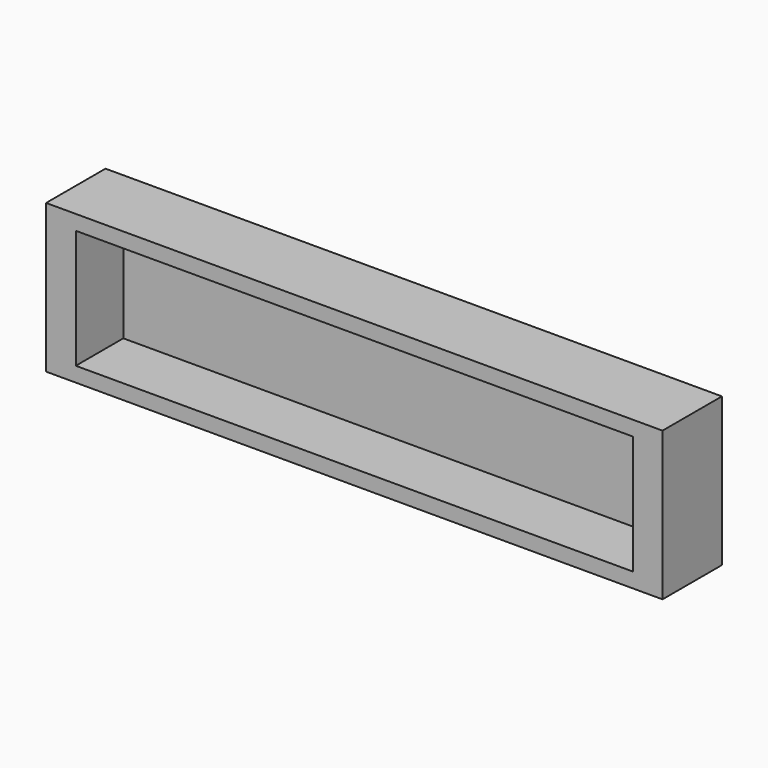
from build123d import *

# Parameters (mm, degrees)
F0_W     = 190.5
F0_H     = 40.64
F1_DEPTH = 5.08
F0_H_2   = 5.08
F2_DEPTH = 25.4


with BuildPart() as f1:
    # F0 (on Front) → F1 (new body)
    with BuildSketch(Plane.XZ):
        Rectangle(F0_W, F0_H)
    extrude(amount=F1_DEPTH)

    # F0 (on Front) → F2 (join)
    with BuildSketch(Plane.XZ):
        Polygon((-95.25, -25.4), (-95.25, -20.32), (-95.25, 20.32), (-95.25, 25.4), (-105.41, 25.4), (-105.41, -25.4), align=None)
        Polygon((95.25, 20.32), (95.25, -20.32), (95.25, -25.4), (105.41, -25.4), (105.41, 25.4), (95.25, 25.4), align=None)
        with Locations((0, -22.86)):
            Rectangle(F0_W, F0_H_2)
        with Locations((0, 22.86)):
            Rectangle(F0_W, F0_H_2)
    extrude(amount=F2_DEPTH)


solid = f1.part
